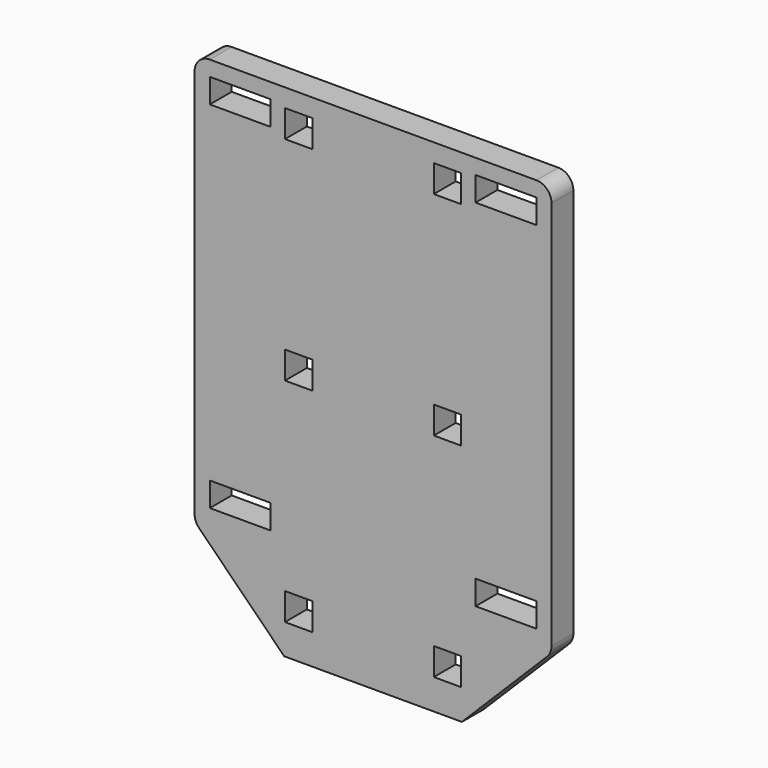
from build123d import *

# Parameters (mm, degrees)
F0_W     = 235
F0_H     = 330
F0_W_2   = 40
F0_H_2   = 16
F0_W_3   = 18
F0_H_3   = 18
F1_DEPTH = 18
F2_SIZE  = 59
F3_R     = 10


with BuildPart() as f1:
    # F0 (on Front) → F1 (new body)
    with BuildSketch(Plane.XZ):
        Rectangle(F0_W, F0_H)
        with Locations((-87.5, -87)):
            Rectangle(F0_W_2, F0_H_2, mode=Mode.SUBTRACT)
        with Locations((-49, -136)):
            Rectangle(F0_W_3, F0_H_3, mode=Mode.SUBTRACT)
        with Locations((49, -136)):
            Rectangle(F0_W_3, F0_H_3, mode=Mode.SUBTRACT)
        with Locations((87.5, -87)):
            Rectangle(F0_W_2, F0_H_2, mode=Mode.SUBTRACT)
        with Locations((-49, 4)):
            Rectangle(F0_W_3, F0_H_3, mode=Mode.SUBTRACT)
        with Locations((-87.5, 147)):
            Rectangle(F0_W_2, F0_H_2, mode=Mode.SUBTRACT)
        with Locations((-49, 144)):
            Rectangle(F0_W_3, F0_H_3, mode=Mode.SUBTRACT)
        with Locations((49, 4)):
            Rectangle(F0_W_3, F0_H_3, mode=Mode.SUBTRACT)
        with Locations((49, 144)):
            Rectangle(F0_W_3, F0_H_3, mode=Mode.SUBTRACT)
        with Locations((87.5, 147)):
            Rectangle(F0_W_2, F0_H_2, mode=Mode.SUBTRACT)
    extrude(amount=F1_DEPTH)

    # F2
    f2_edges = [f1.edges().sort_by_distance(p)[0] for p in [
        (117.5, -9, -165),
        (-117.5, -9, -165),
    ]]
    chamfer(f2_edges, length=F2_SIZE)

    # F3
    f3_edges = [f1.edges().sort_by_distance(p)[0] for p in [
        (117.5, -9, 165),
        (117.5, -9, -106),
        (-117.5, -9, 165),
        (-117.5, -9, -106),
    ]]
    fillet(f3_edges, radius=F3_R)


solid = f1.part
